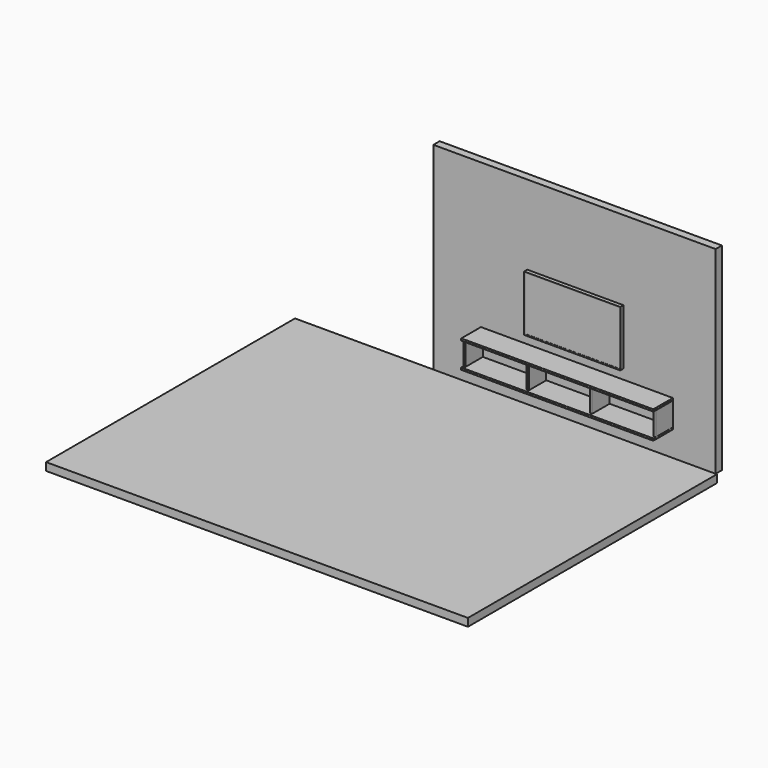
from build123d import *

# Parameters (mm, degrees)
F0_W      = 3610
F0_H      = 2530
F1_DEPTH  = 100
F2_W      = 5394.867659
F2_H      = 3978.996754
F3_DEPTH  = 100
F4_W      = 1230
F4_H      = 715
F5_DEPTH  = 50
F6_W      = 1210
F6_H      = 690
F7_DEPTH  = 2
F8_W      = 2460
F8_H      = 28
F9_DEPTH  = 315
F10_W     = 28
F10_H     = 300
F11_DEPTH = 280
F12_R     = 5
F13_R     = 5


with BuildPart() as f1:
    # F0 (on Front) → F1 (new body)
    with BuildSketch(Plane.XZ):
        with Locations((0, 1265)):
            Rectangle(F0_W, F0_H)
    extrude(amount=-F1_DEPTH)

    # F2 (on Top) → F3 (join)
    with BuildSketch(Plane.XY):
        with Locations((-877.25532, -1989.498377)):
            Rectangle(F2_W, F2_H)
    extrude(amount=-F3_DEPTH)


with BuildPart() as f5:
    # F4 (on face) → F5 (new body)
    with BuildSketch(Plane.XZ):
        with Locations((10, 1157.5)):
            Rectangle(F4_W, F4_H)
    extrude(amount=F5_DEPTH)

    # F6 (on face) → F7 (cut)
    with BuildSketch(Plane.XZ.offset(50)):
        with Locations((10, 1160)):
            Rectangle(F6_W, F6_H)
    extrude(amount=-F7_DEPTH, mode=Mode.SUBTRACT)


with BuildPart() as f9:
    # F8 (on face) → F9 (new body)
    with BuildSketch(Plane.XZ):
        with Locations((29.744167, 662)):
            Rectangle(F8_W, F8_H)
        with Locations((29.744167, 334)):
            Rectangle(F8_W, F8_H)
    extrude(amount=F9_DEPTH)

    # F12
    f12_edges = [f9.edges().sort_by_distance(p)[0] for p in [
        (-1200.255833, -315, 662),
        (-1200.255833, -157.5, 676),
        (-1200.255833, -157.5, 648),
        (29.744167, -315, 648),
        (29.744167, -315, 676),
        (-1200.255833, -157.5, 348),
        (-1200.255833, -157.5, 320),
        (-1200.255833, -315, 334),
        (29.744167, -315, 320),
        (1259.744167, -157.5, 676),
        (1259.744167, -315, 334),
        (1259.744167, -157.5, 320),
        (1259.744167, -157.5, 348),
        (1259.744167, -157.5, 648),
        (1259.744167, -315, 662),
        (29.744167, -315, 348),
    ]]
    fillet(f12_edges, radius=F12_R)


with BuildPart() as f11:
    # F10 (on face) → F11 (new body)
    with BuildSketch(Plane.XZ):
        with Locations((-1186.255833, 498)):
            Rectangle(F10_W, F10_H)
        with Locations((1245.744167, 498)):
            Rectangle(F10_W, F10_H)
        with Locations((-375.589166, 498)):
            Rectangle(F10_W, F10_H)
        with Locations((435.077501, 498)):
            Rectangle(F10_W, F10_H)
    extrude(amount=F11_DEPTH)

    # F13
    f13_edges = [f11.edges().sort_by_distance(p)[0] for p in [
        (-1200.255833, -280, 498),
        (-389.589166, -280, 498),
        (1231.744167, -280, 498),
        (-1172.255833, -280, 498),
        (-361.589166, -280, 498),
        (1259.744167, -280, 498),
        (421.077501, -280, 498),
        (449.077501, -280, 498),
    ]]
    fillet(f13_edges, radius=F13_R)


solid = Compound([f1.part, f5.part, f9.part, f11.part])
